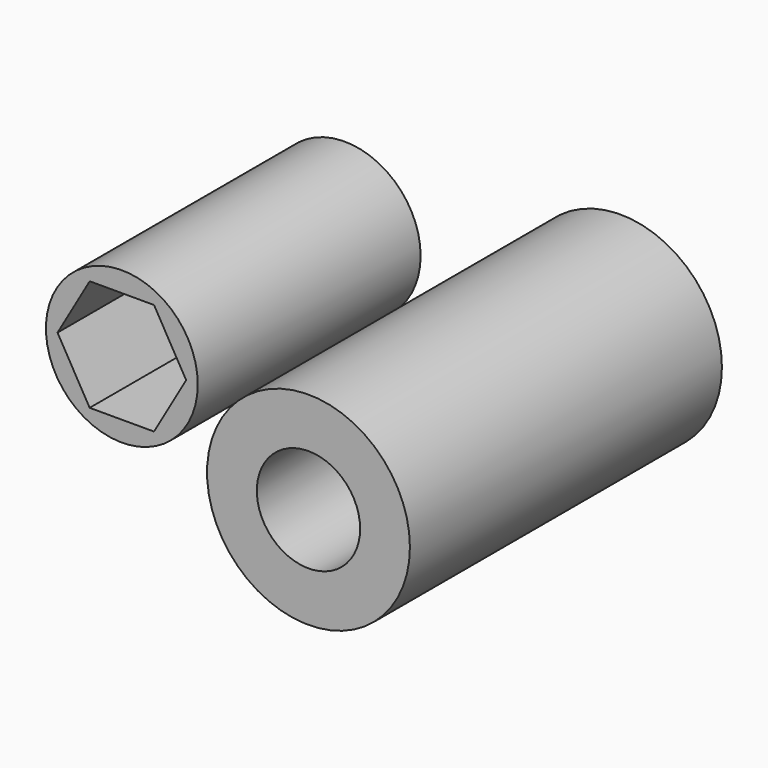
from build123d import *

# Parameters (mm, degrees)
F0_R     = 46.239293
F0_R_2   = 23.55051
F1_DEPTH = 177.8
F2_R     = 34.60514
F3_DEPTH = 127


with BuildPart() as f1:
    # F0 (on Front) → F1 (new body)
    with BuildSketch(Plane.XZ):
        Circle(F0_R)
        Circle(F0_R_2, mode=Mode.SUBTRACT)
    extrude(amount=F1_DEPTH)


with BuildPart() as f3:
    # F2 (on Front) → F3 (new body)
    with BuildSketch(Plane.XZ):
        with Locations((-125.72291, 0)):
            Circle(F2_R)
        Polygon((-96.393517, 0), (-111.058214, -25.4), (-140.387607, -25.4), (-155.052304, 0), (-140.387607, 25.4), (-111.058214, 25.4), align=None, mode=Mode.SUBTRACT)
    extrude(amount=F3_DEPTH)


solid = Compound([f1.part, f3.part])
